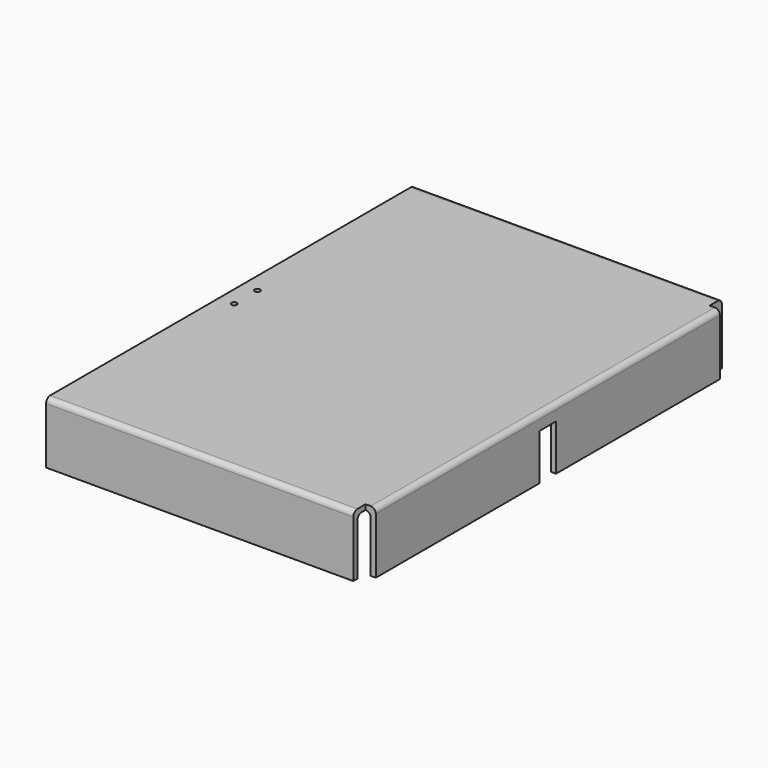
from build123d import *

# Parameters (mm, degrees)
F0_W     = 381
F0_H     = 558.8
F1_DEPTH = 6.35
F2_W     = 381
F2_H     = 6.35
F3_DEPTH = 76.2
F4_W     = 12.7
F4_H     = 533.4
F5_DEPTH = 6.35
F6_W     = 6.35
F6_H     = 533.4
F7_DEPTH = 69.85
F8_W     = 25.4
F8_H     = 57.15
F9_DEPTH = 393.701
F10_R    = 6.35
F12_D    = 6.7564


with BuildPart() as f1:
    # F0 (on Top) → F1 (new body)
    with BuildSketch(Plane.XY):
        Rectangle(F0_W, F0_H)
    extrude(amount=F1_DEPTH)

    # F2 (on face) → F3 (join)
    with BuildSketch(Plane.XY.offset(6.35)):
        with Locations((0, -282.575)):
            Rectangle(F2_W, F2_H)
        with Locations((0, 282.575)):
            Rectangle(F2_W, F2_H)
    extrude(amount=-F3_DEPTH)

    # F4 (on face) → F5 (join)
    with BuildSketch(Plane.XY.offset(6.35)):
        with Locations((196.85, 0)):
            Rectangle(F4_W, F4_H)
    extrude(amount=-F5_DEPTH)

    # F6 (on face) → F7 (join)
    with BuildSketch(Plane(origin=(0, 0, 0), x_dir=(1, 0, 0), z_dir=(0, 0, -1))):
        with Locations((200.025, 0)):
            Rectangle(F6_W, F6_H)
    extrude(amount=F7_DEPTH)

    # F8 (on face) → F9 (cut, through all)
    with BuildSketch(Plane.YZ.offset(203.2)):
        with Locations((0, -41.275)):
            Rectangle(F8_W, F8_H)
    extrude(amount=-F9_DEPTH, mode=Mode.SUBTRACT)

    # F10
    f10_edges = [f1.edges().sort_by_distance(p)[0] for p in [
        (0, 285.75, 6.35),
        (0, -285.75, 6.35),
        (203.2, 0, 6.35),
        (0, -279.4, 0),
        (196.85, 0, 0),
        (0, 279.4, 0),
    ]]
    fillet(f10_edges, radius=F10_R)

    # F12 (through all)
    with Locations(Plane(origin=(0, 0, 0), x_dir=(1, 0, 0), z_dir=(0, 0, -1))):
        with Locations((-171.45, 17.9959), (-171.45, -17.9959)):
            Hole(F12_D / 2)


solid = f1.part
